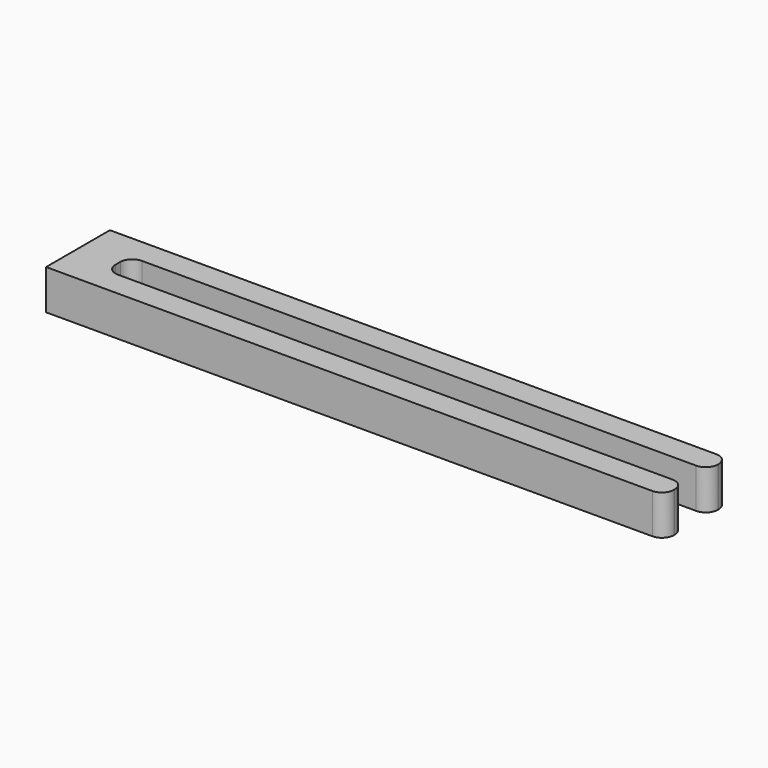
from build123d import *

# Parameters (mm, degrees)
F1_DEPTH = 10


with BuildPart() as f1:
    # F0 (on Top) → F1 (new body)
    with BuildSketch(Plane.XY):
        with BuildLine():
            Line((-77.5, -10), (74.5, -10))
            ThreePointArc((74.5, -10), (76.62132, -9.12132), (77.5, -7))
            Line((77.5, -7), (77.5, -6.75))
            ThreePointArc((77.5, -6.75), (76.62132, -4.62868), (74.5, -3.75))
            Line((74.5, -3.75), (-64.5, -3.75))
            ThreePointArc((-64.5, -3.75), (-66.62132, -2.87132), (-67.5, -0.75))
            Line((-67.5, -0.75), (-67.5, 0.75))
            ThreePointArc((-67.5, 0.75), (-66.62132, 2.87132), (-64.5, 3.75))
            Line((-64.5, 3.75), (74.5, 3.75))
            ThreePointArc((74.5, 3.75), (76.62132, 4.62868), (77.5, 6.75))
            Line((77.5, 6.75), (77.5, 7))
            ThreePointArc((77.5, 7), (76.62132, 9.12132), (74.5, 10))
            Line((74.5, 10), (-77.5, 10))
            Line((-77.5, 10), (-77.5, -10))
        make_face()
    extrude(amount=F1_DEPTH)


solid = f1.part
